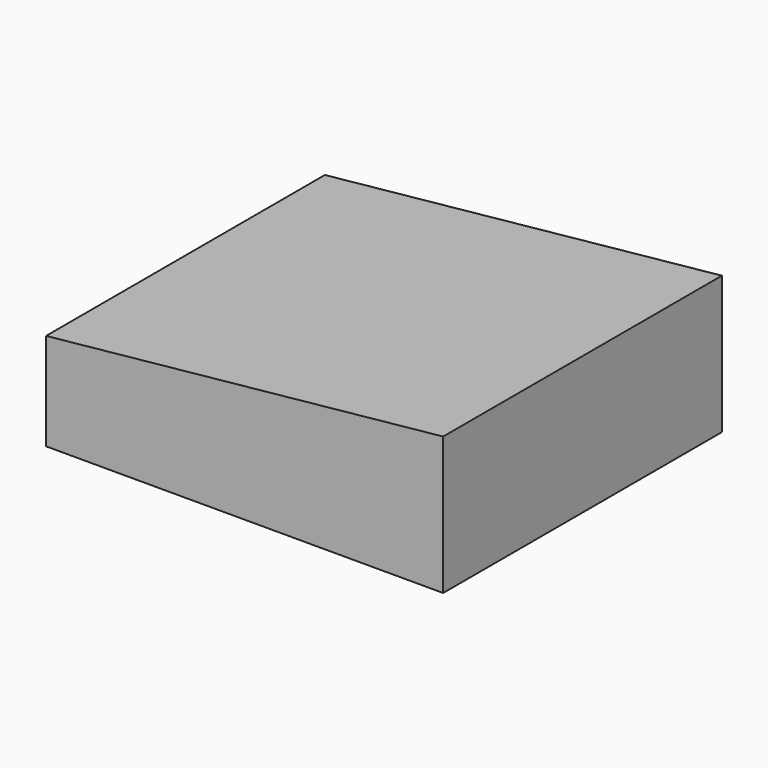
from build123d import *

# Parameters (mm, degrees)
F0_W     = 49
F0_H     = 43
F1_DEPTH = 17
F3_DEPTH = 43


with BuildPart() as f1:
    # F0 (on Top) → F1 (new body)
    with BuildSketch(Plane.XY):
        Rectangle(F0_W, F0_H)
    extrude(amount=F1_DEPTH)

    # F2 (on face) → F3 (cut, through all)
    with BuildSketch(Plane.XZ.offset(21.5)):
        Polygon((-24.5, 12), (24.5, 17), (-24.5, 17), align=None)
    extrude(amount=-F3_DEPTH, mode=Mode.SUBTRACT)


solid = f1.part
